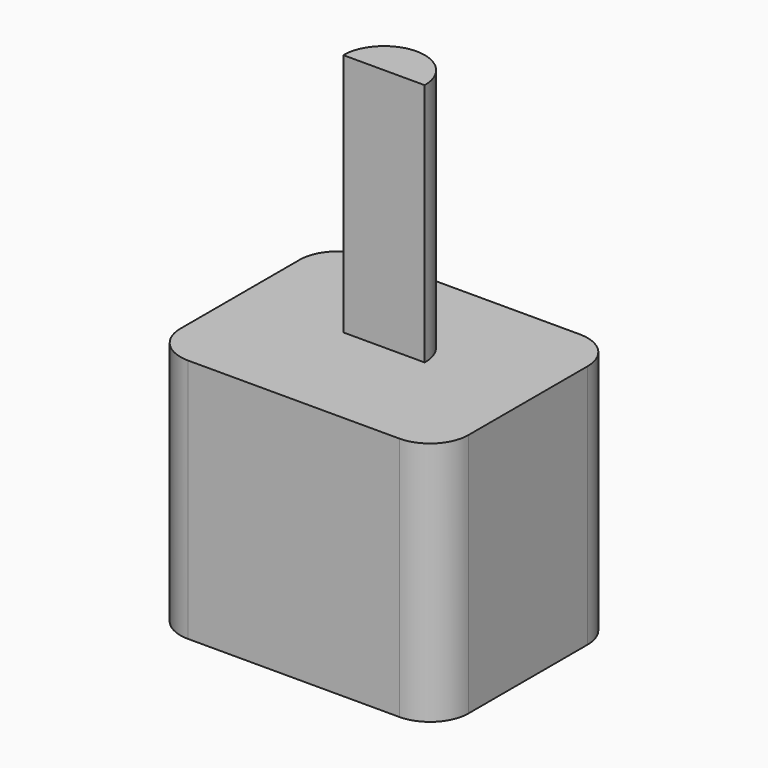
from build123d import *

# Parameters (mm, degrees)
F1_DEPTH = 12.7508
F2_R     = 2.119579
F3_DEPTH = 12.7
F5_DEPTH = 12.7


with BuildPart() as f1:
    # F0 (on Top) → F1 (new body)
    with BuildSketch(Plane.XY):
        with BuildLine():
            Line((5.493004, 5.870853), (-5.493004, 5.870853))
            ThreePointArc((-5.493004, 5.870853), (-6.907215, 5.285067), (-7.493, 3.870857))
            Line((-7.493, 3.870857), (-7.493, -3.870857))
            ThreePointArc((-7.493, -3.870857), (-6.907215, -5.285067), (-5.493004, -5.870853))
            Line((-5.493004, -5.870853), (5.493004, -5.870853))
            ThreePointArc((5.493004, -5.870853), (6.907215, -5.285067), (7.493, -3.870857))
            Line((7.493, -3.870857), (7.493, 3.870857))
            ThreePointArc((7.493, 3.870857), (6.907215, 5.285067), (5.493004, 5.870853))
        make_face()
    extrude(amount=F1_DEPTH)

    # F2 (on face) → F3 (join)
    with BuildSketch(Plane.XY.offset(12.7508)):
        Circle(F2_R)
    extrude(amount=F3_DEPTH)

    # F4 (on face) → F5 (cut)
    with BuildSketch(Plane.XY.offset(25.4508)):
        with BuildLine():
            Line((2.119579, 0), (0, 0))
            Line((0, 0), (-2.119579, 0))
            ThreePointArc((-2.119579, 0), (0, -2.119579), (2.119579, 0))
        make_face()
    extrude(amount=-F5_DEPTH, mode=Mode.SUBTRACT)


solid = f1.part
